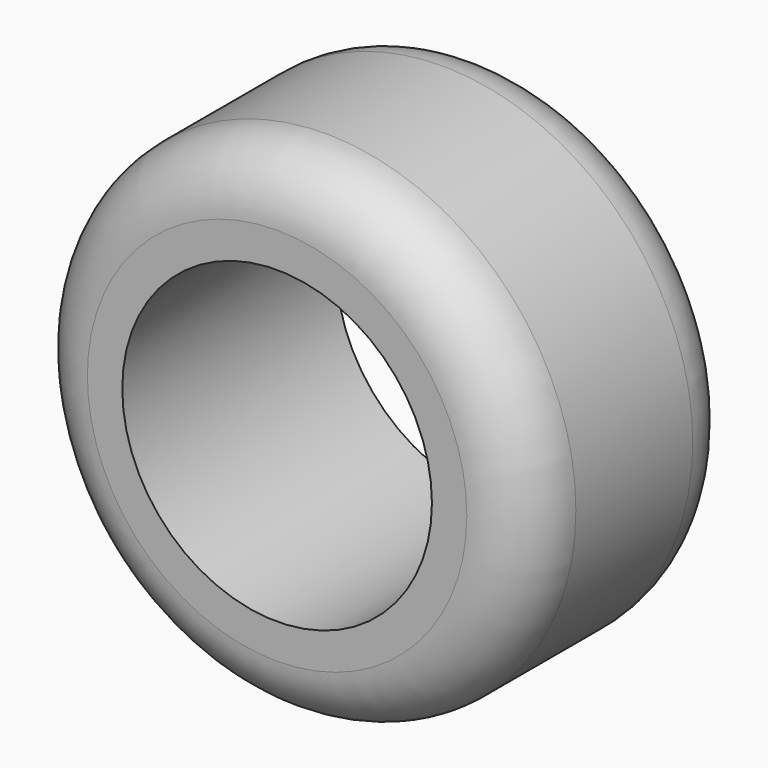
from build123d import *

# Parameters (mm, degrees)
F0_R     = 41.063309
F1_DEPTH = 43.841228
F2_R     = 9.936428
F4_R     = 23.134928
F5_DEPTH = 27.268376
F6_D     = 50.8


with BuildPart() as f1:
    # F0 (on Front) → F1 (new body)
    with BuildSketch(Plane.XZ):
        Circle(F0_R)
    extrude(amount=F1_DEPTH)

    # F2
    f2_edges = [f1.edges().sort_by_distance(p)[0] for p in [
        (-41.063309, -43.841228, 0),
        (41.063309, -21.920614, 0),
        (-41.063309, 0, 0),
    ]]
    fillet(f2_edges, radius=F2_R)

    # F4 (on face) → F5 (join)
    with BuildSketch(Plane.XZ.offset(43.841228)):
        Circle(F4_R)
    extrude(amount=-F5_DEPTH)

    # F6 (through all)
    with Locations(Plane.XZ.offset(43.841228)):
        with Locations((0, 0)):
            Hole(F6_D / 2)


solid = f1.part
